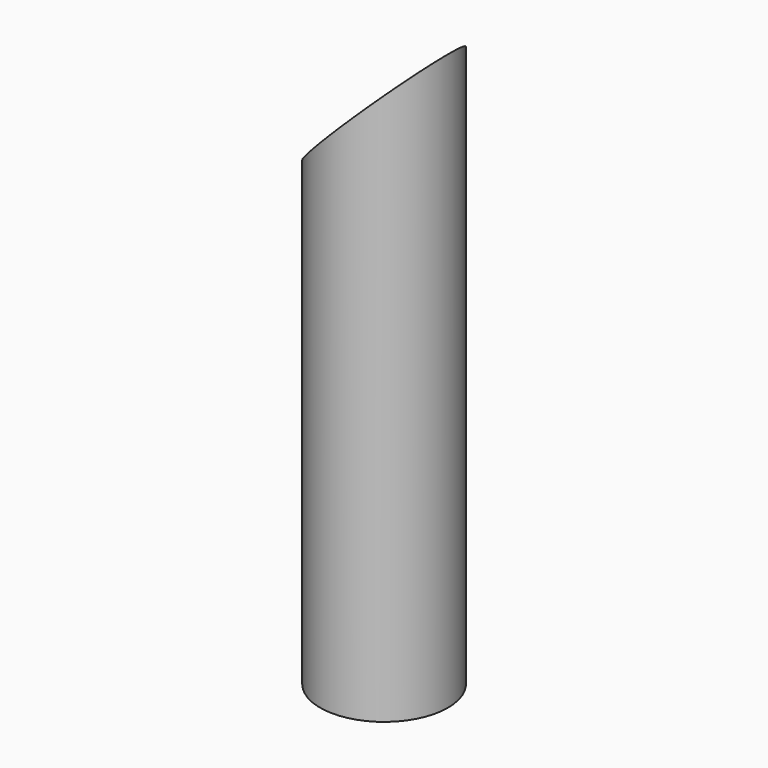
from build123d import *

# Parameters (mm, degrees)
F0_R          = 101.6
F0_R_2        = 99.822
F1_DEPTH      = 914.4
F3_DEPTH      = 101.601
F3_DEPTH_BACK = 101.601


with BuildPart() as f1:
    # F0 (on Top) → F1 (new body)
    with BuildSketch(Plane.XY):
        Circle(F0_R)
        Circle(F0_R_2, mode=Mode.SUBTRACT)
    extrude(amount=F1_DEPTH)

    # F2 (on Front) → F3 (cut, two sides)
    with BuildSketch(Plane.XZ) as f3_sk:
        Polygon((101.6, 914.4), (-101.6, 914.4), (-101.6, 711.2), align=None)
    extrude(amount=-F3_DEPTH, mode=Mode.SUBTRACT)
    extrude(f3_sk.sketch, amount=F3_DEPTH_BACK, mode=Mode.SUBTRACT)


solid = f1.part
